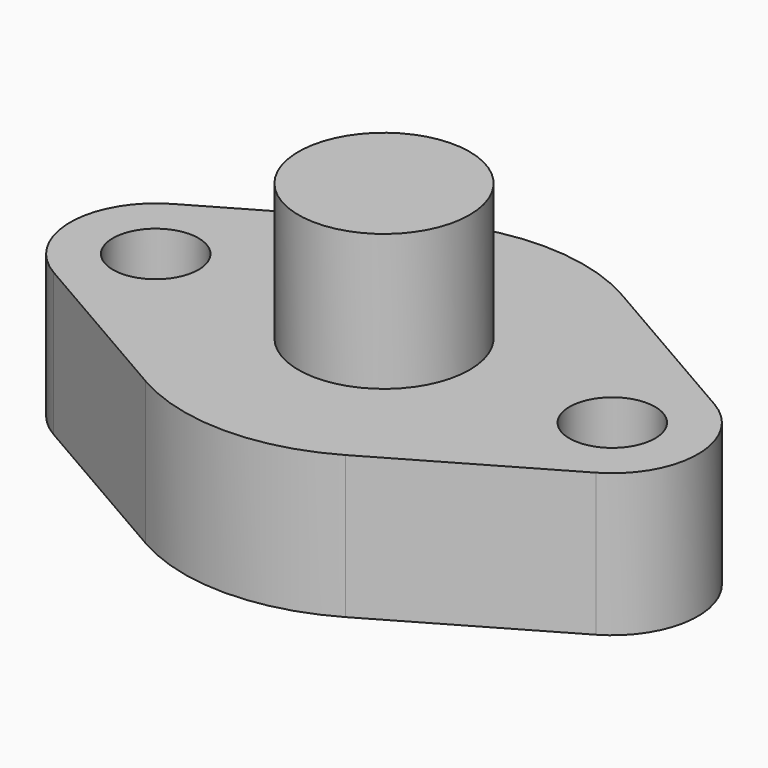
from build123d import *

# Parameters (mm, degrees)
F0_R     = 7.5
F1_DEPTH = 25
F2_R     = 15
F3_DEPTH = 23.9


with BuildPart() as f1:
    # F0 (on Top) → F1 (new body)
    with BuildSketch(Plane.XY):
        with BuildLine():
            Line((-47.5, -12.990381), (-17.5, -30.310889))
            ThreePointArc((-17.5, -30.310889), (0, -35), (17.5, -30.310889))
            Line((17.5, -30.310889), (47.5, -12.990381))
            ThreePointArc((47.5, -12.990381), (55, 0), (47.5, 12.990381))
            Line((47.5, 12.990381), (17.5, 30.310889))
            ThreePointArc((17.5, 30.310889), (0, 35), (-17.5, 30.310889))
            Line((-17.5, 30.310889), (-47.5, 12.990381))
            ThreePointArc((-47.5, 12.990381), (-55, 0), (-47.5, -12.990381))
        make_face()
        with Locations((-40, 0)):
            Circle(F0_R, mode=Mode.SUBTRACT)
        with Locations((40, 0)):
            Circle(F0_R, mode=Mode.SUBTRACT)
    extrude(amount=F1_DEPTH)

    # F2 (on face) → F3 (join)
    with BuildSketch(Plane.XY.offset(25)):
        Circle(F2_R)
    extrude(amount=F3_DEPTH)


solid = f1.part
